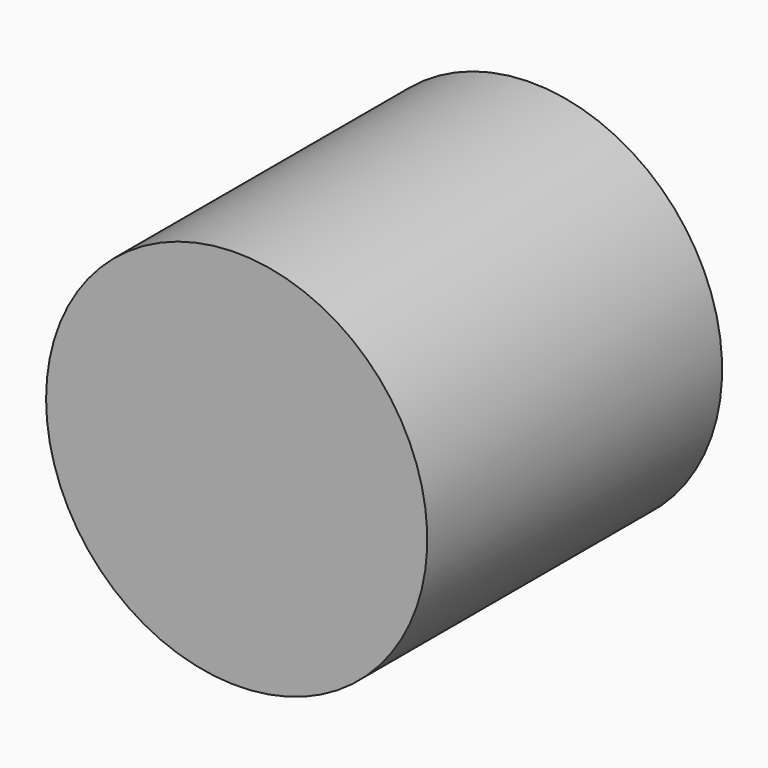
from build123d import *

# Parameters (mm, degrees)
F0_W     = 3.0734
F0_H     = 5.9436
F2_R     = 1.712282
F3_DEPTH = 2.0828


with BuildPart() as f1:
    # F0 (on Top) → F1 (revolve)
    with BuildSketch(Plane.XY):
        with Locations((2.194543, -2.525328)):
            Rectangle(F0_W, F0_H)
    revolve(axis=Axis((3.731243, -2.525328, 0), (0, -1, 0)))

    # F2 (on face) → F3 (cut)
    with BuildSketch(Plane(origin=(0, 0.446472, 0), x_dir=(-1, 0, 0), z_dir=(0, 1, 0))):
        with Locations((-3.731243, 0)):
            Circle(F2_R)
    extrude(amount=-F3_DEPTH, mode=Mode.SUBTRACT)


solid = f1.part
